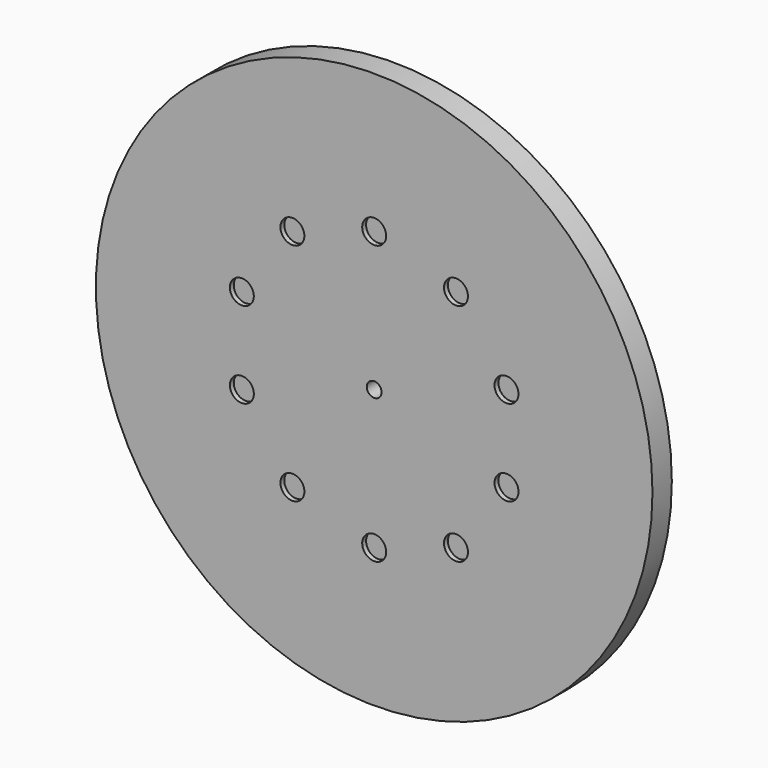
from build123d import *

# Parameters (mm, degrees)
F0_R     = 115
F0_R_2   = 3.05
F1_DEPTH = 10
F2_R     = 4.95
F3_DEPTH = 2


with BuildPart() as f1:
    # F0 (on Front) → F1 (new body)
    with BuildSketch(Plane.XZ):
        Circle(F0_R)
        Circle(F0_R_2, mode=Mode.SUBTRACT)
    extrude(amount=F1_DEPTH)

    # F2 (on face) → F3 (cut)
    with BuildSketch(Plane.XZ.offset(10)):
        with Locations((0, 57.5)):
            Circle(F2_R)
        with Locations((-33.797652, 46.518477)):
            Circle(F2_R)
        with Locations((-54.68575, 17.768477)):
            Circle(F2_R)
        with Locations((-54.68575, -17.768477)):
            Circle(F2_R)
        with Locations((-33.797652, -46.518477)):
            Circle(F2_R)
        with Locations((0, -57.5)):
            Circle(F2_R)
        with Locations((33.797652, -46.518477)):
            Circle(F2_R)
        with Locations((54.68575, -17.768477)):
            Circle(F2_R)
        with Locations((54.68575, 17.768477)):
            Circle(F2_R)
        with Locations((33.797652, 46.518477)):
            Circle(F2_R)
    extrude(amount=-F3_DEPTH, mode=Mode.SUBTRACT)


solid = f1.part
